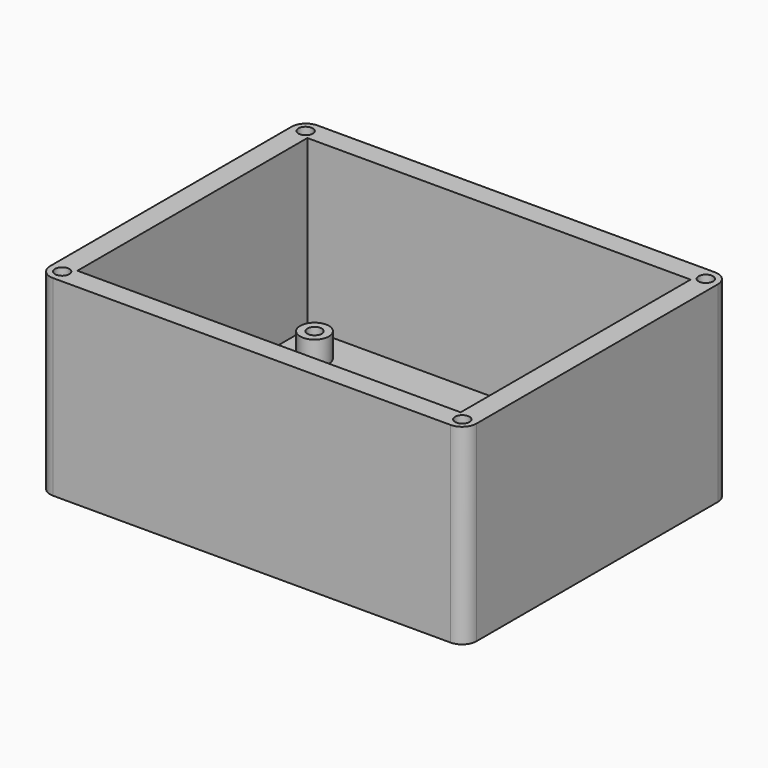
from build123d import *

# Parameters (mm, degrees)
SKETCH_W        = 89
SKETCH_H        = 69
PAD_DEPTH       = 40
SKETCH001_W     = 80
SKETCH001_H     = 60
SKETCH001_R     = 3
SKETCH001_R_2   = 1.5
POCKET_DEPTH    = 35
SKETCH002_R     = 1.5
POCKET001_DEPTH = 40.001
SKETCH003_W     = 76.892074
SKETCH003_H     = 56.42009
POCKET002_DEPTH = 30
FILLET_R        = 3


with BuildPart() as part:
    # Sketch → Pad (new body)
    with BuildSketch(Plane.XY):
        Rectangle(SKETCH_W, SKETCH_H)
    extrude(amount=PAD_DEPTH)

    # Sketch001 (on DatumPlane) → Pocket (cut)
    with BuildSketch(Plane.XY.offset(40)):
        Rectangle(SKETCH001_W, SKETCH001_H)
        with Locations((-32.5, 22.5)):
            Circle(SKETCH001_R, mode=Mode.SUBTRACT)
        with Locations((32.5, 22.5)):
            Circle(SKETCH001_R, mode=Mode.SUBTRACT)
        with Locations((32.5, -22.5)):
            Circle(SKETCH001_R, mode=Mode.SUBTRACT)
        with Locations((-32.5, -22.5)):
            Circle(SKETCH001_R, mode=Mode.SUBTRACT)
        with Locations((-32.5, 22.5)):
            Circle(SKETCH001_R_2)
        with Locations((32.5, 22.5)):
            Circle(SKETCH001_R_2)
        with Locations((32.5, -22.5)):
            Circle(SKETCH001_R_2)
        with Locations((-32.5, -22.5)):
            Circle(SKETCH001_R_2)
    extrude(amount=-POCKET_DEPTH, mode=Mode.SUBTRACT)

    # Sketch002 (on DatumPlane) → Pocket001 (cut, through all)
    with BuildSketch(Plane.XY.offset(40)):
        with Locations((41.767767, 31.767767)):
            Circle(SKETCH002_R)
        with Locations((41.767767, -31.767767)):
            Circle(SKETCH002_R)
        with Locations((-41.767767, -31.767767)):
            Circle(SKETCH002_R)
        with Locations((-41.767767, 31.767767)):
            Circle(SKETCH002_R)
    extrude(amount=-POCKET001_DEPTH, mode=Mode.SUBTRACT)

    # Sketch003 (on DatumPlane) → Pocket002 (cut)
    with BuildSketch(Plane.XY.offset(40)):
        Rectangle(SKETCH003_W, SKETCH003_H)
    extrude(amount=-POCKET002_DEPTH, mode=Mode.SUBTRACT)

    # Fillet
    fillet_edges = [part.edges().sort_by_distance(p)[0] for p in [
        (-44.5, -34.5, 20),
        (44.5, -34.5, 20),
        (44.5, 34.5, 20),
        (-44.5, 34.5, 20),
    ]]
    fillet(fillet_edges, radius=FILLET_R)


solid = part.part
